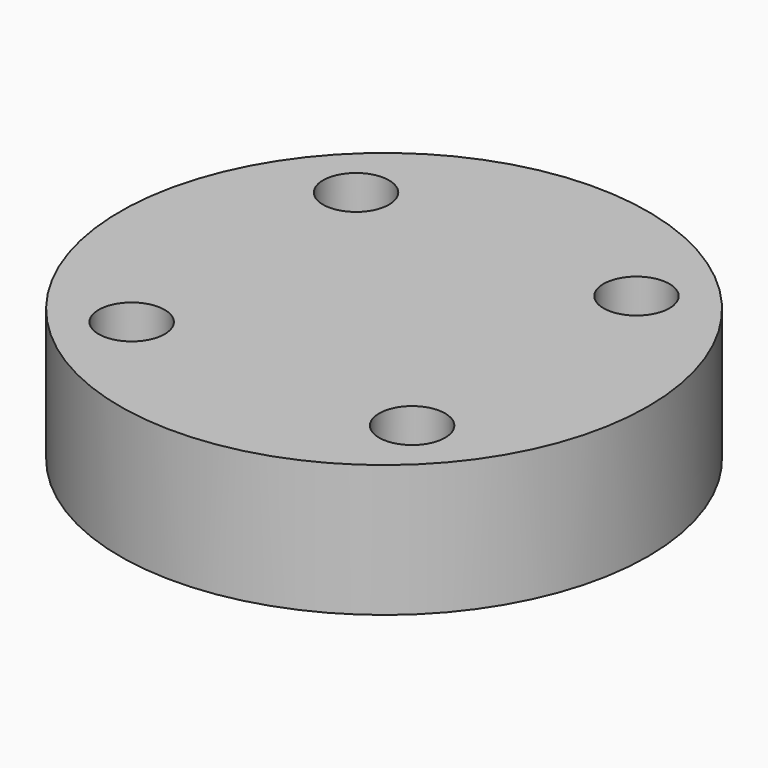
from build123d import *

# Parameters (mm, degrees)
CYLINDER997_R     = 1
CYLINDER997_DEPTH = 20
CYLINDER990_R     = 1
CYLINDER990_DEPTH = 20
CYLINDER992_R     = 1
CYLINDER992_DEPTH = 20
CYLINDER987_R     = 1
CYLINDER987_DEPTH = 20
CYLINDER993_R     = 8
CYLINDER993_DEPTH = 4


with BuildPart() as obj1:
    # Cylinder997 → Cylinder997 (new body)
    with BuildSketch(Plane(origin=(4.25, -4.25, -88), x_dir=(0, 1, 0), z_dir=(0, 0, 1))):
        Circle(CYLINDER997_R)
    extrude(amount=CYLINDER997_DEPTH)


with BuildPart() as obj2:
    # Cylinder990 → Cylinder990 (new body)
    with BuildSketch(Plane(origin=(4.25, 4.25, -88), x_dir=(-1, 0, 0), z_dir=(0, 0, 1))):
        Circle(CYLINDER990_R)
    extrude(amount=CYLINDER990_DEPTH)


with BuildPart() as obj3:
    # Cylinder992 → Cylinder992 (new body)
    with BuildSketch(Plane(origin=(-4.25, 4.25, -88), x_dir=(0, -1, 0), z_dir=(0, 0, 1))):
        Circle(CYLINDER992_R)
    extrude(amount=CYLINDER992_DEPTH)


with BuildPart() as compound815:
    # Cylinder987 → Cylinder987 (new body)
    with BuildSketch(Plane(origin=(-4.25, -4.25, -88), x_dir=(1, 0, 0), z_dir=(0, 0, 1))):
        Circle(CYLINDER987_R)
    extrude(amount=CYLINDER987_DEPTH)

    # Compound815: union obj1, obj2, obj3
    add(obj1.part)
    add(obj2.part)
    add(obj3.part)


with BuildPart() as compound815_1:
    # Compound815 placement: moved
    add(compound815.part.moved(Location((0, 0, 91))))


with BuildPart() as cut359:
    # Cylinder993 → Cylinder993 (new body)
    with BuildSketch(Plane.XY.offset(15)):
        Circle(CYLINDER993_R)
    extrude(amount=CYLINDER993_DEPTH)

    # Cut359: cut Compound815
    add(compound815_1.part, mode=Mode.SUBTRACT)


solid = cut359.part
